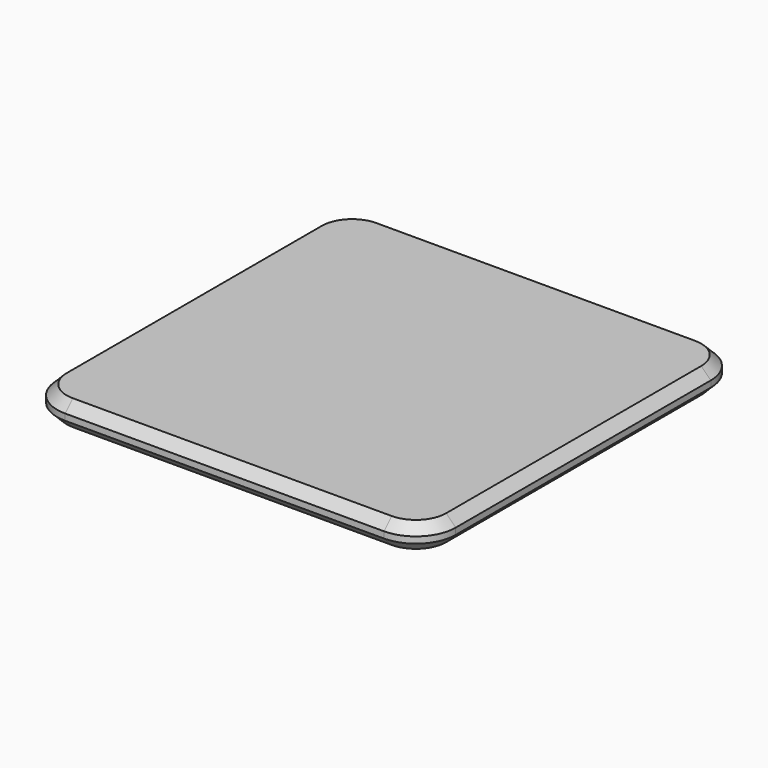
from build123d import *

# Parameters (mm, degrees)
F0_W     = 50
F0_H     = 50
F1_DEPTH = 3.2
F2_R     = 5
F3_SIZE  = 1.2


with BuildPart() as f1:
    # F0 (on Top) → F1 (new body)
    with BuildSketch(Plane.XY):
        Rectangle(F0_W, F0_H)
    extrude(amount=F1_DEPTH)

    # F2
    f2_edges = [f1.edges().sort_by_distance(p)[0] for p in [
        (-25, -25, 1.6),
        (25, -25, 1.6),
        (25, 25, 1.6),
        (-25, 25, 1.6),
    ]]
    fillet(f2_edges, radius=F2_R)

    # F3
    f3_edges = [f1.edges().sort_by_distance(p)[0] for p in [
        (0, -25, 0),
        (-23.535534, -23.535534, 0),
        (23.535534, -23.535534, 0),
        (-25, 0, 0),
        (25, 0, 0),
        (-23.535534, 23.535534, 0),
        (23.535534, 23.535534, 0),
        (0, 25, 0),
        (0, -25, 3.2),
        (-23.535534, -23.535534, 3.2),
        (23.535534, -23.535534, 3.2),
        (-25, 0, 3.2),
        (25, 0, 3.2),
        (-23.535534, 23.535534, 3.2),
        (23.535534, 23.535534, 3.2),
        (0, 25, 3.2),
    ]]
    chamfer(f3_edges, length=F3_SIZE)


solid = f1.part
